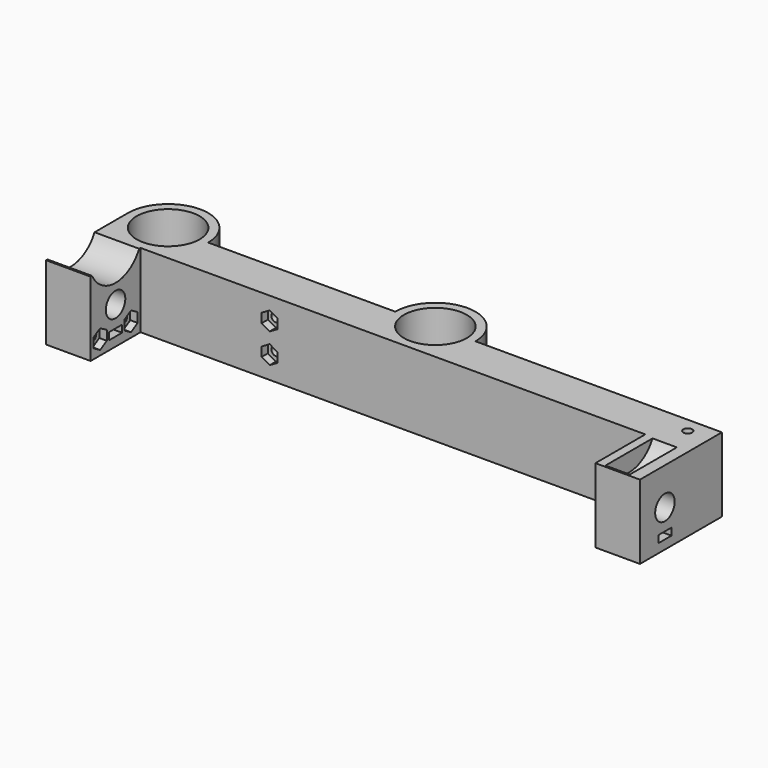
from build123d import *

# Parameters (mm, degrees)
SKETCH007_R          = 10.6
PAD006_DEPTH         = 25
SKETCH016_R          = 4.1
SKETCH016_W          = 5.5
SKETCH016_H          = 2.4
POCKET008_DEPTH      = 58.501
POCKET008_DEPTH_BACK = 141.501
SKETCH024_R          = 11.1
SKETCH024_R_2        = 4.09
POCKET013_DEPTH      = 4.1
SKETCH025_R          = 1.5
POCKET014_DEPTH      = 13.501
POCKET014_DEPTH_BACK = 34.501
POCKET015_DEPTH      = 2.6
SKETCH027_R          = 1.5
POCKET016_DEPTH      = 12.5
SKETCH028_R          = 1.5
POCKET017_DEPTH      = 58.5010001
POCKET018_DEPTH      = 2.5
SKETCH032_R          = 1.5
POCKET019_DEPTH      = 0.001
POCKET019_DEPTH_BACK = 25.001
SKETCH033_R          = 11.1
POCKET020_DEPTH      = 58.5010001


with BuildPart() as part:
    # Sketch007 → Pad006 (new body)
    with BuildSketch(Plane.XY):
        with BuildLine():
            ThreePointArc((-31.5, 0), (-33.9772961575, 7.7942286341), (-40.5, 12.7279220614))
            ThreePointArc((-40.5, 12.7279220614), (-45, 13.5), (-49.5, 12.7279220614))
            ThreePointArc((-49.5, 12.7279220614), (-56.0227038425, 7.7942286341), (-58.5, 0))
            Line((-58.5, 0), (-58.5, -13.5))
            Line((-58.5, -17.2720779386), (-58.5, -13.5))
            Line((-58.5, -17.2720779386), (-58.5, -34.5))
            Line((-58.5, -34.5), (-43.5, -34.5))
            Line((-43.5, -34.5), (-43.5, -17.2720779386))
            Line((-43.5, -13.5), (-43.5, -17.2720779386))
            Line((-43.5, -13.5), (126.5, -13.5))
            Line((126.5, -34.5), (126.5, -13.5))
            Line((141.5, -34.5), (126.5, -34.5))
            Line((141.5, -13.5), (141.5, -34.5))
            Line((141.5, 0), (141.5, -13.5))
            Line((126.5, 0), (141.5, 0))
            Line((58.5, 0), (126.5, 0))
            ThreePointArc((58.5, 0), (45, 13.5), (31.5, 0))
            Line((-31.5, 0), (31.5, 0))
        make_face()
        with Locations((-45, 0)):
            Circle(SKETCH007_R, mode=Mode.SUBTRACT)
        with Locations((45, 0)):
            Circle(SKETCH007_R, mode=Mode.SUBTRACT)
    extrude(amount=PAD006_DEPTH)

    # Sketch016 → Pocket008 (cut, two sides)
    with BuildSketch(Plane.YZ) as pocket008_sk:
        with Locations((-24, 12.5)):
            Circle(SKETCH016_R)
        with Locations((-24, 4.2)):
            Rectangle(SKETCH016_W, SKETCH016_H)
    extrude(amount=-POCKET008_DEPTH, mode=Mode.SUBTRACT)
    extrude(pocket008_sk.sketch, amount=POCKET008_DEPTH_BACK, mode=Mode.SUBTRACT)

    # Sketch024 → Pocket013 (cut, symmetric)
    with BuildSketch(Plane.YZ.offset(133.5)):
        with Locations((-24, 30)):
            Circle(SKETCH024_R)
        with Locations((-24, 30)):
            Circle(SKETCH024_R_2, mode=Mode.SUBTRACT)
    extrude(amount=POCKET013_DEPTH, both=True, mode=Mode.SUBTRACT)

    # Sketch025 → Pocket014 (cut, two sides)
    with BuildSketch(Plane.XZ) as pocket014_sk:
        with Locations((0, 17.5)):
            Circle(SKETCH025_R)
        with Locations((0, 7.5)):
            Circle(SKETCH025_R)
    extrude(amount=-POCKET014_DEPTH, mode=Mode.SUBTRACT)
    extrude(pocket014_sk.sketch, amount=POCKET014_DEPTH_BACK, mode=Mode.SUBTRACT)

    # Sketch026 → Pocket015 (cut)
    with BuildSketch(Plane.XZ.offset(13.5)):
        Polygon((2.7, 19.0588457268), (0, 20.6176914536), (-2.7, 19.0588457268), (-2.7, 15.9411542732), (0, 14.3823085464), (2.7, 15.9411542732), align=None)
        Polygon((2.7, 9.0588457268), (0, 10.6176914536), (-2.7, 9.0588457268), (-2.7, 5.9411542732), (0, 4.3823085464), (2.7, 5.9411542732), align=None)
    extrude(amount=-POCKET015_DEPTH, mode=Mode.SUBTRACT)

    # Sketch027 → Pocket016 (cut)
    with BuildSketch(Plane.XY):
        with Locations((-51, -24)):
            Circle(SKETCH027_R)
        with Locations((134, -24)):
            Circle(SKETCH027_R)
    extrude(amount=POCKET016_DEPTH, mode=Mode.SUBTRACT)

    # Sketch028 → Pocket017 (cut, through all)
    with BuildSketch(Plane.YZ):
        with Locations((-30.5, 4.86)):
            Circle(SKETCH028_R)
        with Locations((-17.5, 4.86)):
            Circle(SKETCH028_R)
    extrude(amount=-POCKET017_DEPTH, mode=Mode.SUBTRACT)

    # Sketch029 → Pocket018 (cut)
    with BuildSketch(Plane.YZ.offset(-43.5)):
        Polygon((-27.7, 6.4765807537), (-30.5, 8.0931615075), (-33.3, 6.4765807537), (-33.3, 3.2434192463), (-30.5, 1.6268384925), (-27.7, 3.2434192463), align=None)
        Polygon((-20.3, 6.4765807537), (-20.3, 3.2434192463), (-17.5, 1.6268384925), (-14.7, 3.2434192463), (-14.7, 6.4765807537), (-17.5, 8.0931615075), align=None)
    extrude(amount=-POCKET018_DEPTH, mode=Mode.SUBTRACT)

    # Sketch032 → Pocket019 (cut, two sides)
    with BuildSketch(Plane.XY) as pocket019_sk:
        with Locations((134, -5)):
            Circle(SKETCH032_R)
    extrude(amount=-POCKET019_DEPTH, mode=Mode.SUBTRACT)
    extrude(pocket019_sk.sketch, amount=POCKET019_DEPTH_BACK, mode=Mode.SUBTRACT)

    # Sketch033 → Pocket020 (cut, through all)
    with BuildSketch(Plane.YZ):
        with Locations((-24, 30)):
            Circle(SKETCH033_R)
    extrude(amount=-POCKET020_DEPTH, mode=Mode.SUBTRACT)


with BuildPart() as part_1:
    # Body005 placement: moved
    add(part.part.moved(Location((0, 86, 0))))


solid = part_1.part
